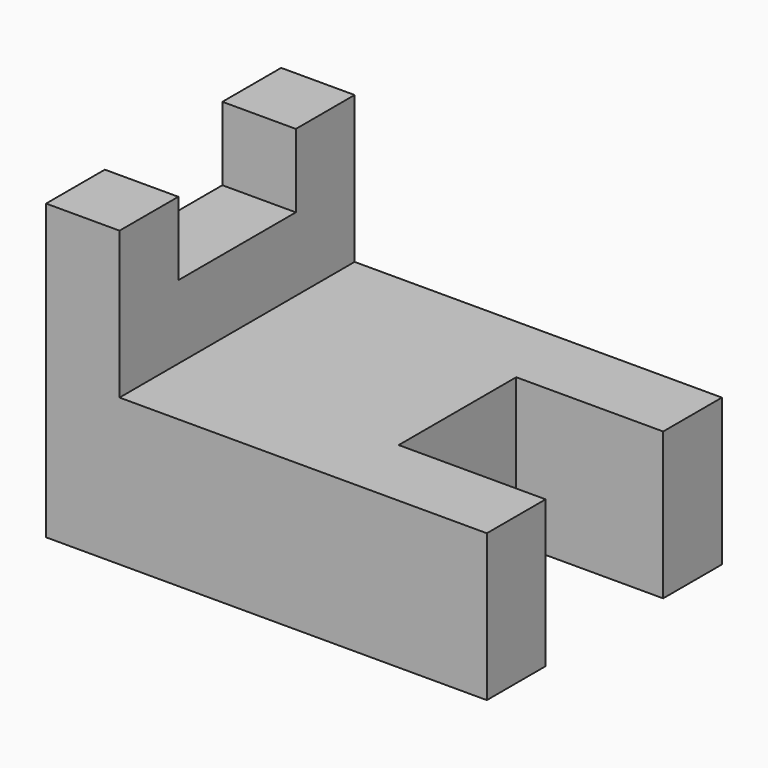
from build123d import *

# Parameters (mm, degrees)
F1_DEPTH = 25.4
F2_W     = 12.7
F2_H     = 6.35
F3_DEPTH = 6.351
F4_W     = 12.7
F4_H     = 12.7
F5_DEPTH = 12.701


with BuildPart() as f1:
    # F0 (on Front) → F1 (new body)
    with BuildSketch(Plane.XZ):
        Polygon((0, 25.4), (0, 0), (38.1, 0), (38.1, 12.7), (6.35, 12.7), (6.35, 25.4), align=None)
    extrude(amount=-F1_DEPTH)

    # F2 (on face) → F3 (cut, through all)
    with BuildSketch(Plane.YZ.offset(6.35)):
        with Locations((12.7, 22.225)):
            Rectangle(F2_W, F2_H)
    extrude(amount=-F3_DEPTH, mode=Mode.SUBTRACT)

    # F4 (on face) → F5 (cut, through all)
    with BuildSketch(Plane.XY.offset(12.7)):
        with Locations((31.75, 12.7)):
            Rectangle(F4_W, F4_H)
    extrude(amount=-F5_DEPTH, mode=Mode.SUBTRACT)


solid = f1.part
